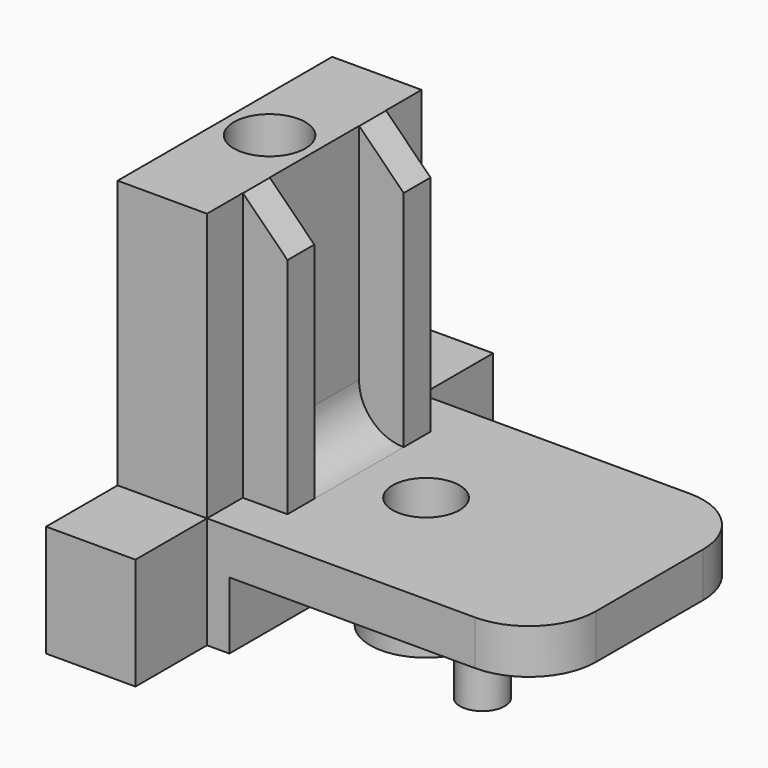
from build123d import *

# Parameters (mm, degrees)
SKETCH_W      = 4
SKETCH_H      = 12
SKETCH_R      = 1.6
PAD_DEPTH     = 12
SKETCH001_R   = 1.6
SKETCH001_R_2 = 1.5
PAD001_DEPTH  = 5
SKETCH002_W   = 14
SKETCH002_H   = 12
SKETCH002_R   = 1
SKETCH002_R_2 = 2.5
POCKET_DEPTH  = 3.001
SKETCH003_W   = 2
SKETCH003_H   = 1.5
PAD002_DEPTH  = 12
CHAMFER_SIZE  = 1.99
FILLET002_R   = 2
FILLET_R      = 3


with BuildPart() as part:
    # Sketch → Pad (new body)
    with BuildSketch(Plane.XY):
        with Locations((2, 6)):
            Rectangle(SKETCH_W, SKETCH_H)
        with Locations((2, 6)):
            Circle(SKETCH_R, mode=Mode.SUBTRACT)
    extrude(amount=PAD_DEPTH)

    # Sketch001 → Pad001 (join)
    with BuildSketch(Plane.XY):
        Polygon((0, -4), (4, -4), (4, 0), (19, 0), (19, 12), (4, 12), (4, 16), (0, 16), align=None)
        with Locations((2, 6)):
            Circle(SKETCH001_R, mode=Mode.SUBTRACT)
        with Locations((9, 6)):
            Circle(SKETCH001_R_2, mode=Mode.SUBTRACT)
    extrude(amount=-PAD001_DEPTH)

    # Sketch002 (on DatumPlane) → Pocket (cut, through all)
    with BuildSketch(Plane.XY.offset(-2)):
        with Locations((12, 6)):
            Rectangle(SKETCH002_W, SKETCH002_H)
        with Locations((14, 9.1)):
            Circle(SKETCH002_R, mode=Mode.SUBTRACT)
        with Locations((14, 2.9)):
            Circle(SKETCH002_R, mode=Mode.SUBTRACT)
        with Locations((9, 6)):
            Circle(SKETCH002_R_2, mode=Mode.SUBTRACT)
    extrude(amount=-POCKET_DEPTH, mode=Mode.SUBTRACT)

    # Sketch003 → Pad002 (join)
    with BuildSketch(Plane.XY):
        with Locations((5, 9.25)):
            Rectangle(SKETCH003_W, SKETCH003_H)
        with Locations((5, 2.75)):
            Rectangle(SKETCH003_W, SKETCH003_H)
    extrude(amount=PAD002_DEPTH)

    # Chamfer
    chamfer_edges = [part.edges().sort_by_distance(p)[0] for p in [
        (6, 2.75, 12),
        (6, 9.25, 12),
    ]]
    chamfer(chamfer_edges, length=CHAMFER_SIZE)

    # Fillet002
    fillet002_edges = [part.edges().sort_by_distance(p)[0] for p in [
        (4, 6, 0),
    ]]
    fillet(fillet002_edges, radius=FILLET002_R)

    # Fillet
    fillet_edges = [part.edges().sort_by_distance(p)[0] for p in [
        (19, 0, -1),
        (19, 12, -1),
    ]]
    fillet(fillet_edges, radius=FILLET_R)


solid = part.part
